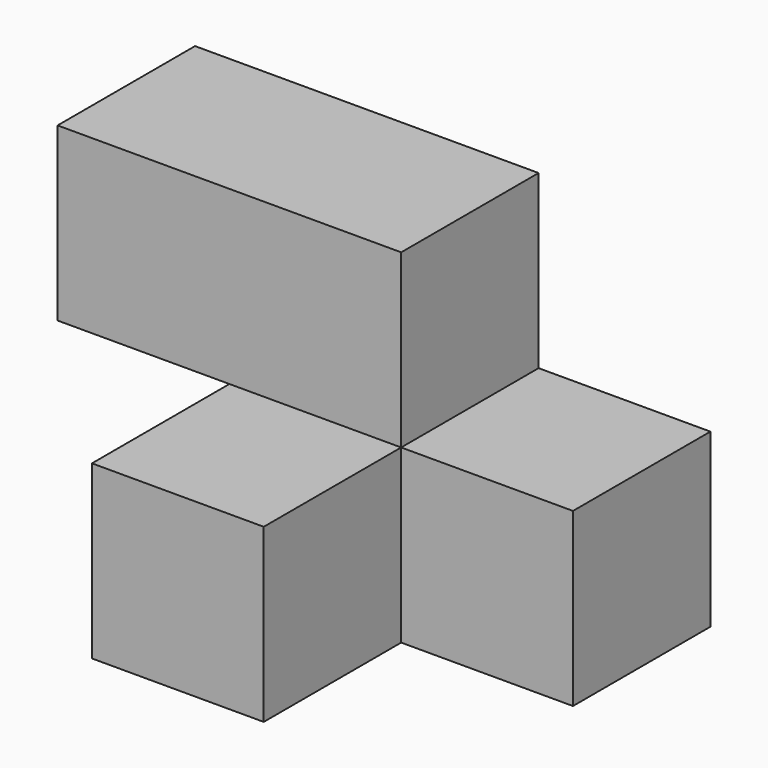
from build123d import *

# Parameters (mm, degrees)
F1_DEPTH = 19.05
F2_W     = 19.05
F2_H     = 19.05
F3_DEPTH = 19.05


with BuildPart() as f1:
    # F0 (on Front) → F1 (new body)
    with BuildSketch(Plane.XZ):
        Polygon((0, 19.05), (0, 0), (38.1, 0), (38.1, 19.05), (19.05, 19.05), (19.05, 38.1), (-19.05, 38.1), (-19.05, 19.05), align=None)
    extrude(amount=F1_DEPTH)

    # F2 (on face) → F3 (join)
    with BuildSketch(Plane.XZ.offset(19.05)):
        with Locations((9.525, 9.525)):
            Rectangle(F2_W, F2_H)
    extrude(amount=F3_DEPTH)


solid = f1.part
